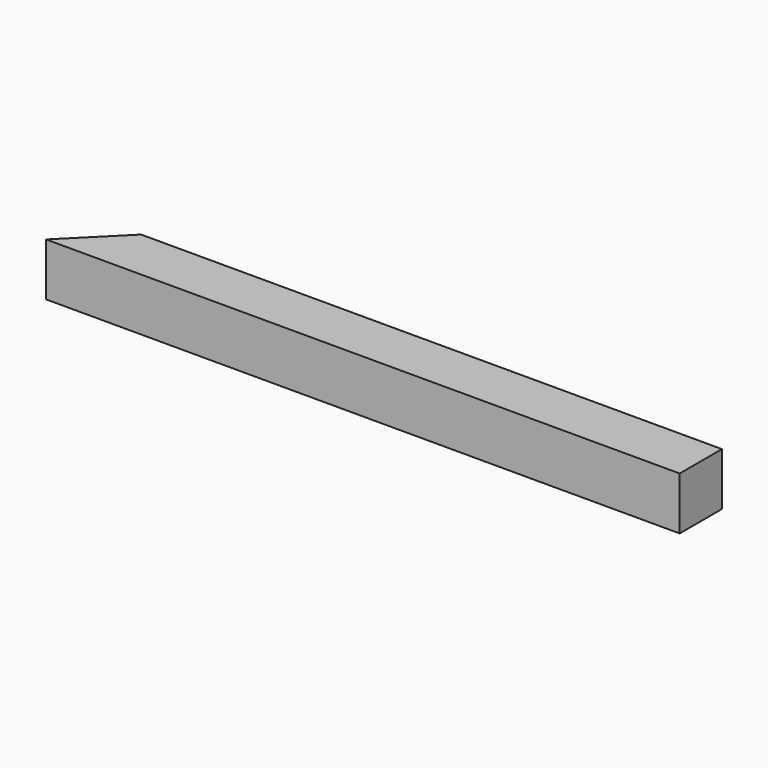
from build123d import *

# Parameters (mm, degrees)
F0_W     = 381
F0_H     = 31.75
F1_DEPTH = 15.875
F3_DEPTH = 31.75


with BuildPart() as f1:
    # F0 (on Top) → F1 (new body, symmetric)
    with BuildSketch(Plane.XY):
        Rectangle(F0_W, F0_H)
    extrude(amount=F1_DEPTH, both=True)

    # F2 (on face) → F3 (cut)
    with BuildSketch(Plane.XY.offset(15.875)):
        Polygon((-190.5, 15.875), (-190.5, -15.875), (-158.75, 15.875), align=None)
    extrude(amount=-F3_DEPTH, mode=Mode.SUBTRACT)


solid = f1.part
